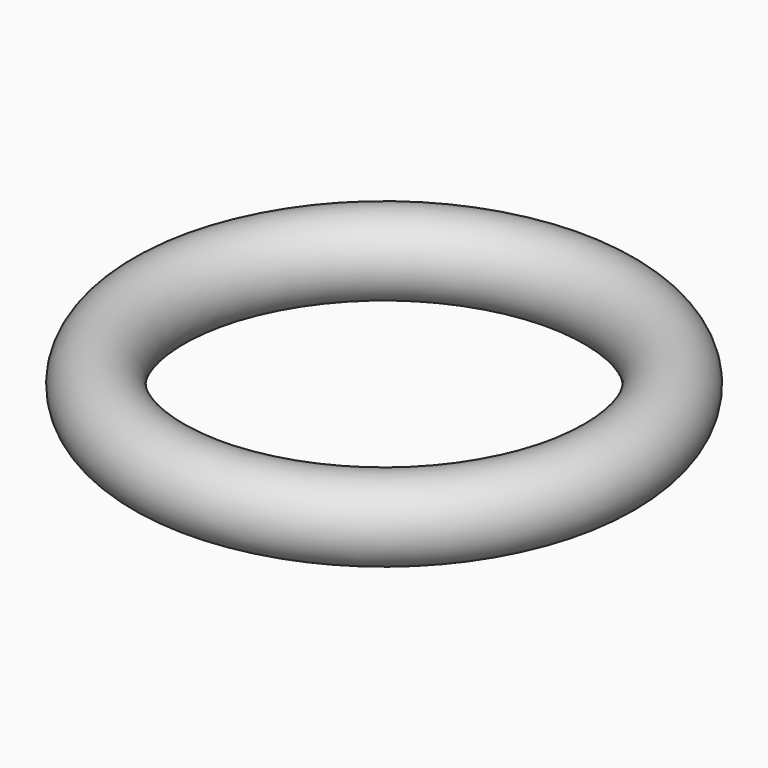
from build123d import *

# Parameters (mm, degrees)
F1_R = 1.25


with BuildPart() as f2:
    # F2: sweep along a path in F0
    with BuildLine(Plane.XY) as f2_path:
        CenterArc((0, 0), 7.25, 0, 360)
    # F1 (on Right) → F2 (sweep)
    with BuildSketch(Plane.YZ):
        with Locations((7.2439193822, 0)):
            Circle(F1_R)
    sweep(path=f2_path.line)


solid = f2.part
